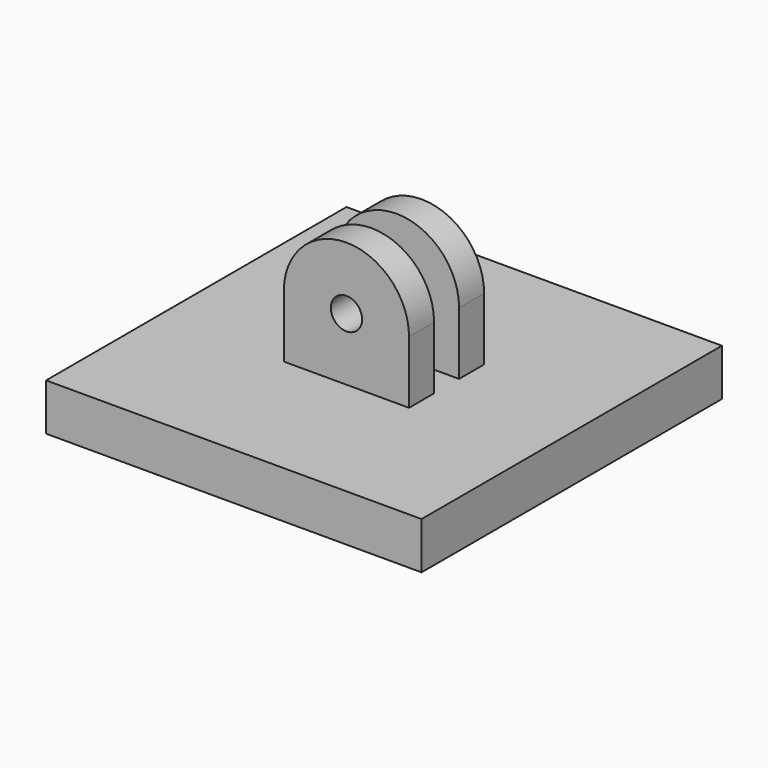
from build123d import *

# Parameters (mm, degrees)
SKETCH_W        = 120
SKETCH_H        = 120
PAD_DEPTH       = 15
PAD001_DEPTH    = 15
SKETCH002_R     = 5
POCKET_DEPTH    = 31
SKETCH003_W     = 10
SKETCH003_H     = 75
POCKET001_DEPTH = 40


with BuildPart() as part:
    # Sketch → Pad (new body)
    with BuildSketch(Plane.XY):
        Rectangle(SKETCH_W, SKETCH_H)
    extrude(amount=PAD_DEPTH)

    # Sketch001 → Pad001 (join, symmetric)
    with BuildSketch(Plane.XZ):
        with BuildLine():
            Line((20, 35), (20, 15))
            Line((20, 15), (-20, 15))
            Line((-20, 15), (-20, 35))
            ThreePointArc((20, 35), (0, 54.999972), (-20, 35))
        make_face()
    extrude(amount=PAD001_DEPTH, both=True)

    # Sketch002 (on Face8 of Pad001) → Pocket (cut)
    with BuildSketch(Plane.XZ.offset(15)):
        with Locations((0, 35)):
            Circle(SKETCH002_R)
    extrude(amount=-POCKET_DEPTH, mode=Mode.SUBTRACT)

    # Sketch003 (on Face7 of Pocket) → Pocket001 (cut)
    with BuildSketch(Plane.YZ.offset(20)):
        with Locations((0, 52.5)):
            Rectangle(SKETCH003_W, SKETCH003_H)
    extrude(amount=-POCKET001_DEPTH, mode=Mode.SUBTRACT)


solid = part.part
